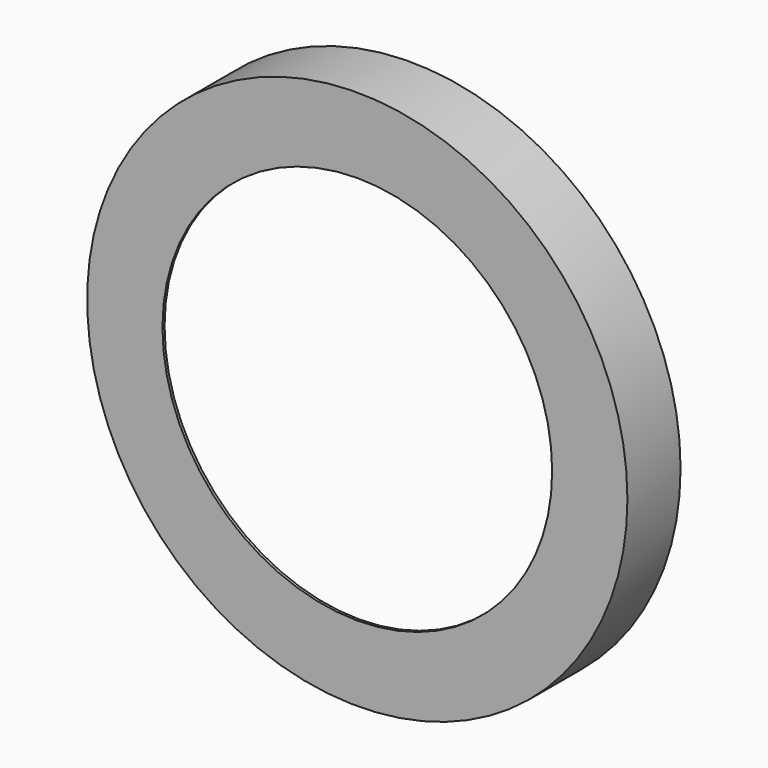
from build123d import *

# Parameters (mm, degrees)
F0_R     = 305
F1_DEPTH = 75
F2_T     = -3
F3_R     = 220
F4_DEPTH = 75.001


with BuildPart() as f1:
    # F0 (on Front) → F1 (new body)
    with BuildSketch(Plane.XZ):
        Circle(F0_R)
    extrude(amount=F1_DEPTH)

    # F2
    f2_openings = [f1.faces().sort_by_distance(p)[0] for p in [
        (0, 0, 0),
    ]]
    offset(amount=F2_T, openings=f2_openings)

    # F3 (on face) → F4 (cut, through all)
    with BuildSketch(Plane.XZ.offset(75)):
        Circle(F3_R)
    extrude(amount=-F4_DEPTH, mode=Mode.SUBTRACT)


solid = f1.part
